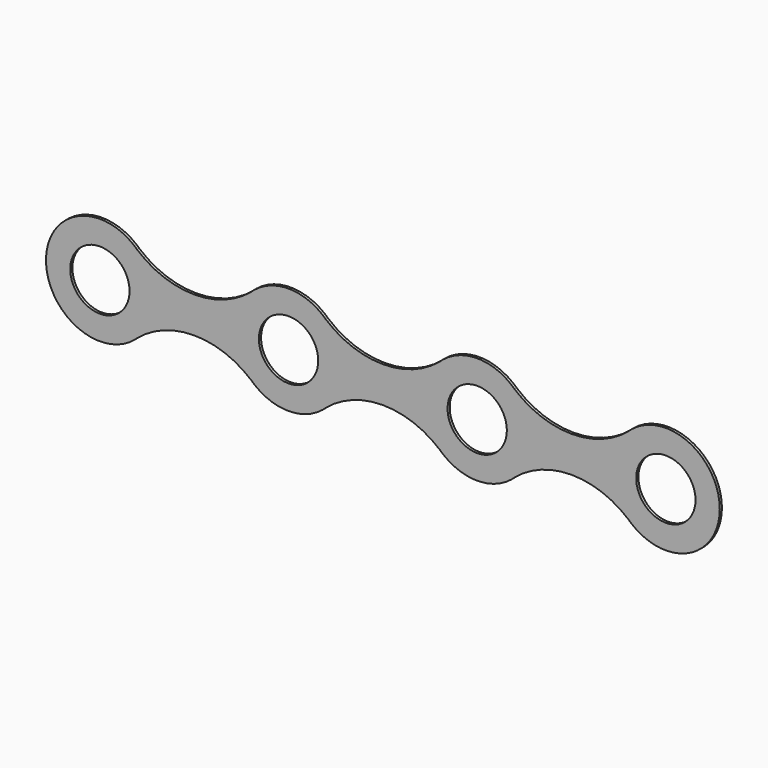
from build123d import *

# Parameters (mm, degrees)
F1_R     = 10
F3_DEPTH = 0.5
F2_R     = 5.5
F4_DEPTH = 25
F9_DEPTH = 0.5


with BuildPart() as f3:
    # F1 (on Front) → F3 (new body)
    with BuildSketch(Plane.XZ):
        Circle(F1_R)
    extrude(amount=F3_DEPTH)

    # F2 (on Front) → F4 (cut)
    with BuildSketch(Plane.XZ):
        Circle(F2_R)
    extrude(amount=F4_DEPTH, mode=Mode.SUBTRACT)



with BuildPart() as f5_1:
    # F5: copy of F3
    add(f3.part.moved(Location((35, 0, 0))))


with BuildPart() as f6_1:
    # F6: copy of F3
    add(f3.part.moved(Location((105, 0, 0))))


with BuildPart() as f7_1:
    # F7: copy of F3
    add(f3.part.moved(Location((70, 0, 0))))


with BuildPart() as f3_1:
    add(f3.part)

    add(f5_1.part)  # F9 merges F5_1

    add(f6_1.part)  # F9 merges F6_1

    add(f7_1.part)  # F9 merges F7_1
    # F8 (on Front) → F9 (join)
    with BuildSketch(Plane.XZ):
        with BuildLine():
            ThreePointArc((28.654308, 7.728661), (17.5, 3.336749), (6.345692, 7.728661))
            Line((6.345692, 7.728661), (6.345692, -7.728661))
            ThreePointArc((6.345692, -7.728661), (17.5, -3.336749), (28.654308, -7.728661))
            Line((28.654308, -7.728661), (28.654308, 7.728661))
        make_face()
        with BuildLine():
            ThreePointArc((63.654308, 7.728661), (52.5, 3.336749), (41.345692, 7.728661))
            Line((41.345692, 7.728661), (41.345692, -7.728661))
            ThreePointArc((41.345692, -7.728661), (52.5, -3.336749), (63.654308, -7.728661))
            Line((63.654308, -7.728661), (63.654308, 7.728661))
        make_face()
        with BuildLine():
            ThreePointArc((98.654308, 7.728661), (87.5, 3.336749), (76.345692, 7.728661))
            Line((76.345692, 7.728661), (76.345692, -7.728661))
            ThreePointArc((76.345692, -7.728661), (87.5, -3.336749), (98.654308, -7.728661))
            Line((98.654308, -7.728661), (98.654308, 7.728661))
        make_face()
    extrude(amount=F9_DEPTH)


solid = f3_1.part
